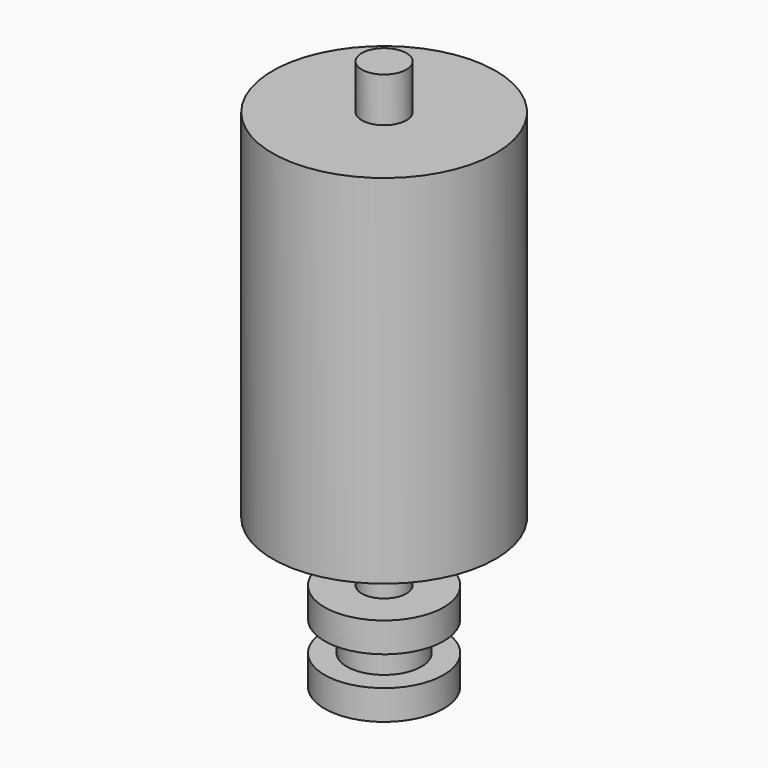
from build123d import *

# Parameters (mm, degrees)
SKETCH_R     = 7.5
PAD_DEPTH    = 24
SKETCH001_R  = 1.5
PAD001_DEPTH = 3
SKETCH002_R  = 1.5
PAD002_DEPTH = 4
SKETCH003_R  = 4
PAD003_DEPTH = 2
SKETCH004_R  = 2.5
PAD004_DEPTH = 2
SKETCH005_R  = 4
PAD005_DEPTH = 2


with BuildPart() as part:
    # Sketch → Pad (new body)
    with BuildSketch(Plane.XY):
        Circle(SKETCH_R)
    extrude(amount=PAD_DEPTH)

    # Sketch001 → Pad001 (new body)
    with BuildSketch(Plane.XY.offset(24)):
        Circle(SKETCH001_R)
    extrude(amount=PAD001_DEPTH)

    # Sketch002 → Pad002 (new body)
    with BuildSketch(Plane(origin=(0, 0, 0), x_dir=(1, 0, 0), z_dir=(0, 0, -1))):
        Circle(SKETCH002_R)
    extrude(amount=PAD002_DEPTH)

    # Sketch003 → Pad003 (new body)
    with BuildSketch(Plane(origin=(0, 0, -4), x_dir=(1, 0, 0), z_dir=(0, 0, -1))):
        Circle(SKETCH003_R)
    extrude(amount=PAD003_DEPTH)

    # Sketch004 → Pad004 (new body)
    with BuildSketch(Plane(origin=(0, 0, -6), x_dir=(1, 0, 0), z_dir=(0, 0, -1))):
        Circle(SKETCH004_R)
    extrude(amount=PAD004_DEPTH)

    # Sketch005 → Pad005 (new body)
    with BuildSketch(Plane(origin=(0, 0, -8), x_dir=(1, 0, 0), z_dir=(0, 0, -1))):
        Circle(SKETCH005_R)
    extrude(amount=PAD005_DEPTH)


solid = part.part
